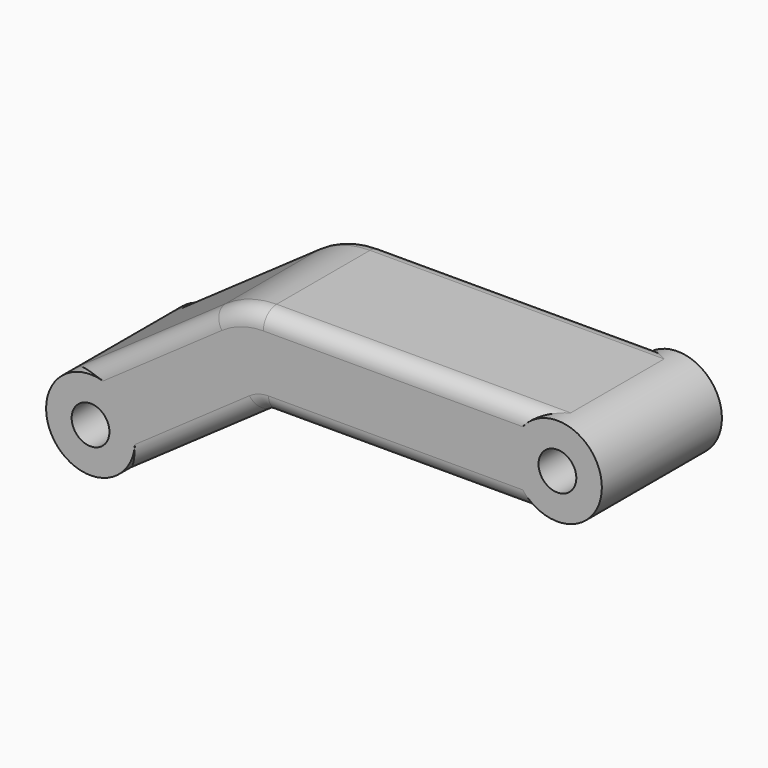
from build123d import *

# Parameters (mm, degrees)
SKETCH007_R   = 1.7
PAD019_DEPTH  = 13.5
FILLET006_R   = 1.5
SKETCH035_R   = 4
SKETCH035_R_2 = 1.7
PAD020_DEPTH  = 13.5


with BuildPart() as part:
    # Sketch007 → Pad019 (new body)
    with BuildSketch(Plane(origin=(0, 19.25, 0), x_dir=(-1, 0, 0), z_dir=(0, 1, 0))):
        with BuildLine():
            ThreePointArc((12, 26), (8, 22), (12, 18))
            Line((12, 18), (37.984377, 18))
            ThreePointArc((38.844741, 17.728728), (38.435435, 17.930575), (37.984377, 18))
            Line((38.844741, 17.728728), (51.705713, 8.723378))
            ThreePointArc((51.705713, 8.723378), (57.276616, 9.705705), (56.294304, 15.27661))
            Line((43.045936, 24.553216), (56.294304, 15.27661))
            ThreePointArc((43.045936, 24.553216), (40.862971, 25.629736), (38.457325, 26))
            Line((12, 26), (38.457325, 26))
        make_face()
        with Locations((12, 22)):
            Circle(SKETCH007_R, mode=Mode.SUBTRACT)
        with Locations((54, 12)):
            Circle(SKETCH007_R, mode=Mode.SUBTRACT)
    extrude(amount=PAD019_DEPTH)

    # Fillet006
    fillet006_edges = [part.edges().sort_by_distance(p)[0] for p in [
        (-49.67012, 32.75, 19.914913),
        (-49.67012, 19.25, 19.914913),
    ]]
    fillet(fillet006_edges, radius=FILLET006_R)

    # Sketch035 (on Face12 of Fillet006) → Pad020 (join)
    with BuildSketch(Plane(origin=(0, 32.75, 0), x_dir=(-1, 0, 0), z_dir=(0, 1, 0))):
        with Locations((54, 12)):
            Circle(SKETCH035_R)
        with Locations((54, 12)):
            Circle(SKETCH035_R_2, mode=Mode.SUBTRACT)
        with Locations((12, 22)):
            Circle(SKETCH035_R)
        with Locations((12, 22)):
            Circle(SKETCH035_R_2, mode=Mode.SUBTRACT)
    extrude(amount=-PAD020_DEPTH)


with BuildPart() as part_1:
    # Body002 placement: moved
    add(part.part.moved(Location((0, -5, 0))))


with BuildPart() as part_2:
    # Clone162 placement: moved
    add(part_1.part.moved(Location((-47, 5, 8))))


solid = part_2.part
